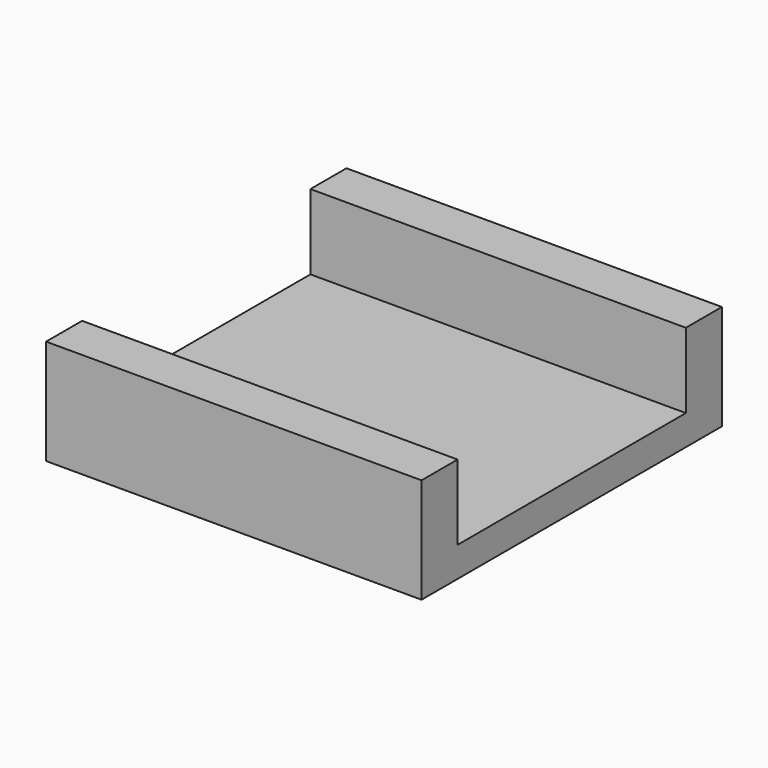
from build123d import *

# Parameters (mm, degrees)
SKETCH_W     = 25
SKETCH_H     = 25
PAD_DEPTH    = 2
SKETCH001_W  = 25
SKETCH001_H  = 3
PAD001_DEPTH = 5


with BuildPart() as part:
    # Sketch → Pad (new body)
    with BuildSketch(Plane.XY):
        with Locations((12.5, 12.5)):
            Rectangle(SKETCH_W, SKETCH_H)
    extrude(amount=PAD_DEPTH)

    # Sketch001 (on Face6 of Pad) → Pad001 (join)
    with BuildSketch(Plane.XY.offset(2)):
        with Locations((12.5, 23.5)):
            Rectangle(SKETCH001_W, SKETCH001_H)
        with Locations((12.5, 1.5)):
            Rectangle(SKETCH001_W, SKETCH001_H)
    extrude(amount=PAD001_DEPTH)


solid = part.part
